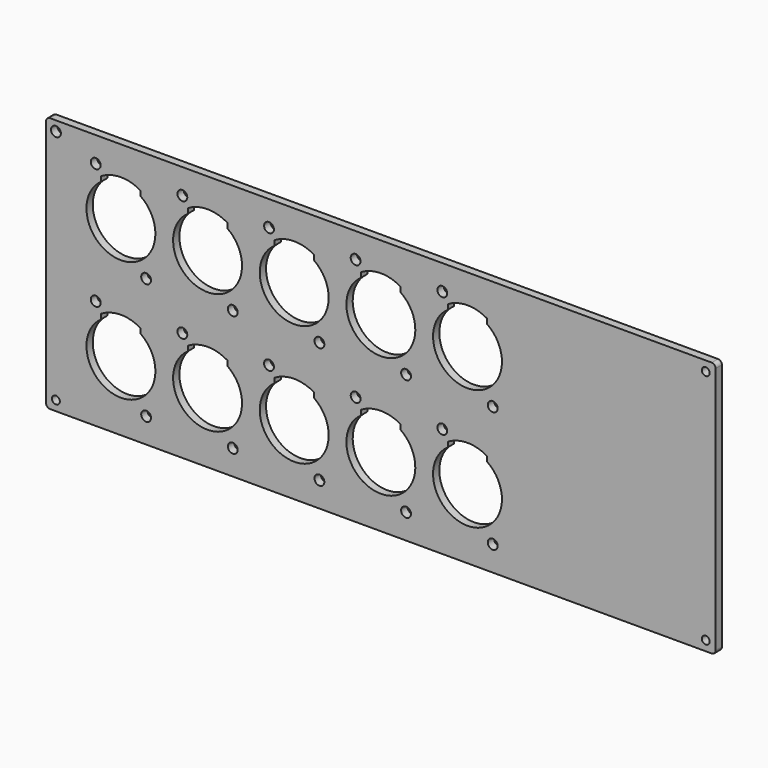
from build123d import *

# Parameters (mm, degrees)
F0_R     = 1.27
F0_R_2   = 1.5875
F1_DEPTH = 2.54


with BuildPart() as f1:
    # F0 (on Front) → F1 (new body)
    with BuildSketch(Plane.XZ):
        with BuildLine():
            Line((106.68, 41.302181), (-106.680917, 41.302181))
            ThreePointArc((-106.680917, 41.302181), (-107.578942, 40.930207), (-107.950917, 40.032181))
            Line((-107.950917, 40.032181), (-107.950917, -40.005))
            ThreePointArc((-107.950917, -40.005), (-107.578942, -40.903026), (-106.680917, -41.275))
            Line((-106.680917, -41.275), (106.68, -41.275))
            ThreePointArc((106.68, -41.275), (107.578026, -40.903026), (107.95, -40.005))
            Line((107.95, -40.005), (107.95, 40.032181))
            ThreePointArc((107.95, 40.032181), (107.578026, 40.930207), (106.68, 41.302181))
        make_face()
        with Locations((-104.775917, -38.1)):
            Circle(F0_R, mode=Mode.SUBTRACT)
        with Locations((-75.692, -33.2105)):
            Circle(F0_R_2, mode=Mode.SUBTRACT)
        with Locations((-47.752, -33.2105)):
            Circle(F0_R_2, mode=Mode.SUBTRACT)
        with Locations((-19.812, -33.2105)):
            Circle(F0_R_2, mode=Mode.SUBTRACT)
        with BuildLine():
            ThreePointArc((-77.47, -10.406757), (-83.82, -30.63875), (-90.17, -10.406757))
            Line((-90.17, -10.406757), (-90.17, -8.817245))
            ThreePointArc((-90.17, -8.817245), (-83.82, -7.076138), (-77.47, -8.817245))
            Line((-77.47, -8.817245), (-77.47, -10.406757))
        make_face(mode=Mode.SUBTRACT)
        with BuildLine():
            ThreePointArc((-49.53, -10.406757), (-55.88, -30.63875), (-62.23, -10.406757))
            Line((-62.23, -10.406757), (-62.23, -8.817245))
            ThreePointArc((-62.23, -8.817245), (-55.88, -7.076138), (-49.53, -8.817245))
            Line((-49.53, -8.817245), (-49.53, -10.406757))
        make_face(mode=Mode.SUBTRACT)
        with Locations((-91.948, -5.842)):
            Circle(F0_R_2, mode=Mode.SUBTRACT)
        with Locations((-64.008, -5.842)):
            Circle(F0_R_2, mode=Mode.SUBTRACT)
        with BuildLine():
            ThreePointArc((-21.59, -10.406757), (-27.94, -30.63875), (-34.29, -10.406757))
            Line((-34.29, -10.406757), (-34.29, -8.817245))
            ThreePointArc((-34.29, -8.817245), (-27.94, -7.076138), (-21.59, -8.817245))
            Line((-21.59, -8.817245), (-21.59, -10.406757))
        make_face(mode=Mode.SUBTRACT)
        with Locations((-36.068, -5.842)):
            Circle(F0_R_2, mode=Mode.SUBTRACT)
        with Locations((-8.128, -5.842)):
            Circle(F0_R_2, mode=Mode.SUBTRACT)
        with Locations((8.128, -33.2105)):
            Circle(F0_R_2, mode=Mode.SUBTRACT)
        with Locations((36.068, -33.2105)):
            Circle(F0_R_2, mode=Mode.SUBTRACT)
        with Locations((104.775, -38.1)):
            Circle(F0_R, mode=Mode.SUBTRACT)
        with BuildLine():
            ThreePointArc((6.35, -10.406757), (0, -30.63875), (-6.35, -10.406757))
            Line((-6.35, -10.406757), (-6.35, -8.817245))
            ThreePointArc((-6.35, -8.817245), (0, -7.076138), (6.35, -8.817245))
            Line((6.35, -8.817245), (6.35, -10.406757))
        make_face(mode=Mode.SUBTRACT)
        with BuildLine():
            ThreePointArc((34.29, -10.406757), (27.94, -30.63875), (21.59, -10.406757))
            Line((21.59, -10.406757), (21.59, -8.817245))
            ThreePointArc((21.59, -8.817245), (27.94, -7.076138), (34.29, -8.817245))
            Line((34.29, -8.817245), (34.29, -10.406757))
        make_face(mode=Mode.SUBTRACT)
        with Locations((19.812, -5.842)):
            Circle(F0_R_2, mode=Mode.SUBTRACT)
        with Locations((-75.692, 5.842)):
            Circle(F0_R_2, mode=Mode.SUBTRACT)
        with BuildLine():
            ThreePointArc((-77.47, 28.645743), (-83.82, 8.41375), (-90.17, 28.645743))
            Line((-90.17, 28.645743), (-90.17, 30.235255))
            ThreePointArc((-90.17, 30.235255), (-83.82, 31.976362), (-77.47, 30.235255))
            Line((-77.47, 30.235255), (-77.47, 28.645743))
        make_face(mode=Mode.SUBTRACT)
        with BuildLine():
            ThreePointArc((-49.53, 28.645743), (-55.88, 8.41375), (-62.23, 28.645743))
            Line((-62.23, 28.645743), (-62.23, 30.235255))
            ThreePointArc((-62.23, 30.235255), (-55.88, 31.976362), (-49.53, 30.235255))
            Line((-49.53, 30.235255), (-49.53, 28.645743))
        make_face(mode=Mode.SUBTRACT)
        with Locations((-47.752, 5.842)):
            Circle(F0_R_2, mode=Mode.SUBTRACT)
        with Locations((-19.812, 5.842)):
            Circle(F0_R_2, mode=Mode.SUBTRACT)
        with BuildLine():
            ThreePointArc((-21.59, 28.645743), (-27.94, 8.41375), (-34.29, 28.645743))
            Line((-34.29, 28.645743), (-34.29, 30.235255))
            ThreePointArc((-34.29, 30.235255), (-27.94, 31.976362), (-21.59, 30.235255))
            Line((-21.59, 30.235255), (-21.59, 28.645743))
        make_face(mode=Mode.SUBTRACT)
        with Locations((-91.948, 33.2105)):
            Circle(F0_R_2, mode=Mode.SUBTRACT)
        with Locations((-104.775917, 38.127181)):
            Circle(F0_R_2, mode=Mode.SUBTRACT)
        with Locations((-64.008, 33.2105)):
            Circle(F0_R_2, mode=Mode.SUBTRACT)
        with Locations((-36.068, 33.2105)):
            Circle(F0_R_2, mode=Mode.SUBTRACT)
        with Locations((-8.128, 33.2105)):
            Circle(F0_R_2, mode=Mode.SUBTRACT)
        with Locations((8.128, 5.842)):
            Circle(F0_R_2, mode=Mode.SUBTRACT)
        with Locations((36.068, 5.842)):
            Circle(F0_R_2, mode=Mode.SUBTRACT)
        with BuildLine():
            ThreePointArc((6.35, 28.645743), (0, 8.41375), (-6.35, 28.645743))
            Line((-6.35, 28.645743), (-6.35, 30.235255))
            ThreePointArc((-6.35, 30.235255), (0, 31.976362), (6.35, 30.235255))
            Line((6.35, 30.235255), (6.35, 28.645743))
        make_face(mode=Mode.SUBTRACT)
        with BuildLine():
            ThreePointArc((34.29, 28.645743), (27.94, 8.41375), (21.59, 28.645743))
            Line((21.59, 28.645743), (21.59, 30.235255))
            ThreePointArc((21.59, 30.235255), (27.94, 31.976362), (34.29, 30.235255))
            Line((34.29, 30.235255), (34.29, 28.645743))
        make_face(mode=Mode.SUBTRACT)
        with Locations((19.812, 33.2105)):
            Circle(F0_R_2, mode=Mode.SUBTRACT)
        with Locations((104.775, 38.127181)):
            Circle(F0_R, mode=Mode.SUBTRACT)
    extrude(amount=F1_DEPTH)


solid = f1.part
